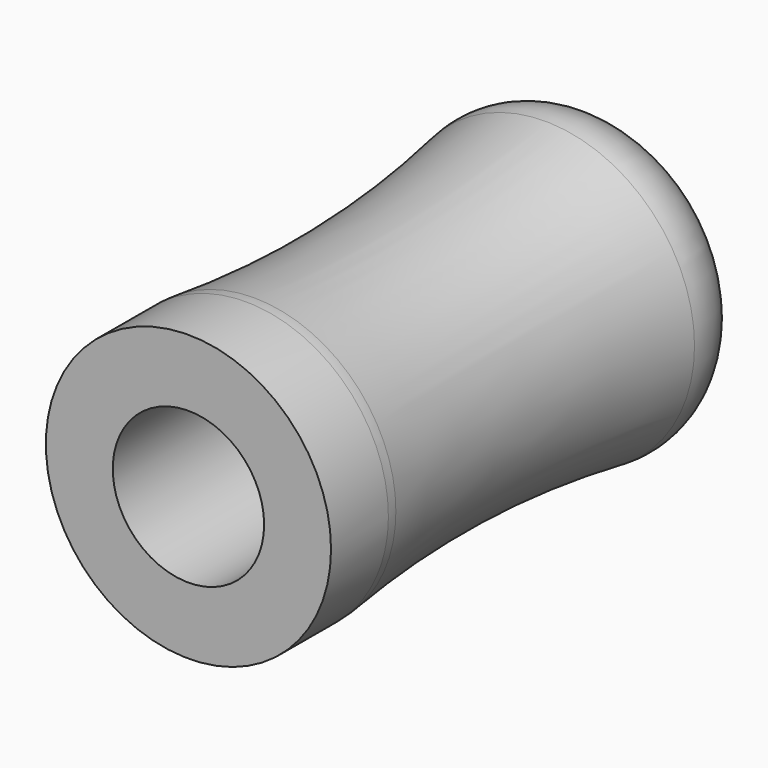
from build123d import *

# Parameters (mm, degrees)
F2_R     = 2
F3_R     = 9.75
F3_R_2   = 8.95
F4_DEPTH = 10
F5_R     = 5


with BuildPart() as f1:
    # F0 (on Top) → F1 (revolve)
    with BuildSketch(Plane.XY):
        with BuildLine():
            ThreePointArc((9.75, -15), (8.281654, -1.025091), (9.37742, 12.983957))
            ThreePointArc((9.37742, 12.983957), (9.246485, 14.870996), (8.263125, 16.486875))
            Line((8.263125, 16.486875), (7.45, 17.3))
            Line((7.45, 17.3), (4.75, 17.3))
            Line((4.75, 17.3), (4.75, -15))
            Line((4.75, -15), (9.75, -15))
        make_face()
    revolve(axis=Axis((0, -4.586624, 0), (0, -1, 0)))

    # F2
    f2_edges = [f1.edges().sort_by_distance(p)[0] for p in [
        (-7.45, 17.3, 0),
    ]]
    fillet(f2_edges, radius=F2_R)

    # F3 (on face) → F4 (cut)
    with BuildSketch(Plane.XZ.offset(15)):
        Circle(F3_R)
        Circle(F3_R_2, mode=Mode.SUBTRACT)
    extrude(amount=-F4_DEPTH, mode=Mode.SUBTRACT)

    # F5
    f5_edges = [f1.edges().sort_by_distance(p)[0] for p in [
        (-8.95, -10.174491, 0),
        (8.287942, 1.420896, 0),
        (-9.37742, 12.983957, 0),
    ]]
    fillet(f5_edges, radius=F5_R)


solid = f1.part
